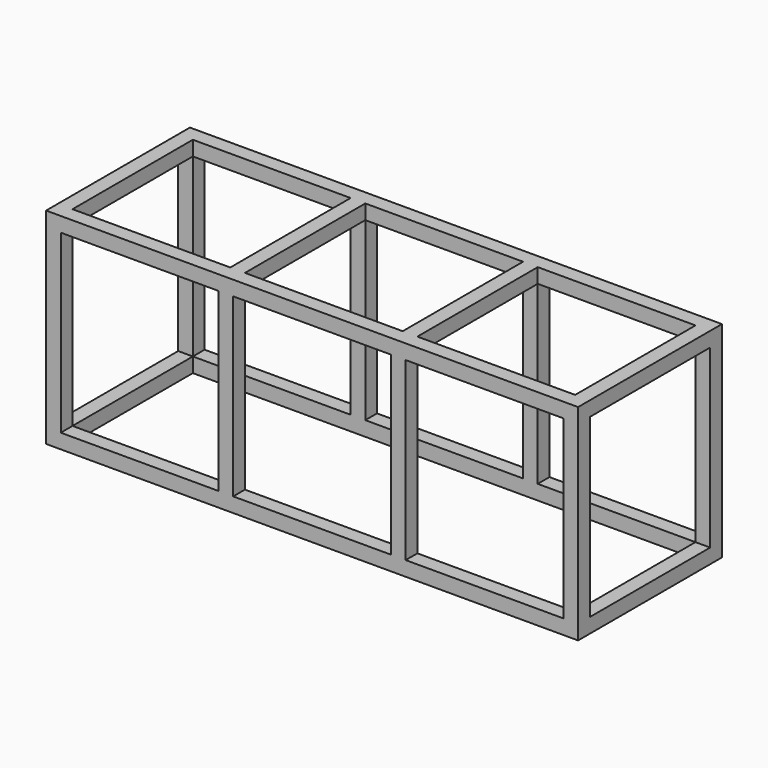
from build123d import *

# Parameters (mm, degrees)
F0_W      = 1841.5
F0_H      = 622.3
F1_DEPTH  = 711.2
F2_W      = 1739.9
F2_H      = 609.6
F3_DEPTH  = 762
F4_W      = 520.7
F4_H      = 609.6
F5_DEPTH  = 2540
F6_W      = 1739.9
F6_H      = 520.7
F7_DEPTH  = 2540
F8_W      = 50.8
F8_H      = 50.8
F9_DEPTH  = 520.7
F10_W     = 50.8
F10_H     = 50.8
F11_DEPTH = 609.6
F12_W     = 50.8
F12_H     = 50.8
F13_DEPTH = 609.6


with BuildPart() as f1:
    # F0 (on Top) → F1 (new body)
    with BuildSketch(Plane.XY):
        with Locations((814.200432, 140.348346)):
            Rectangle(F0_W, F0_H)
    extrude(amount=F1_DEPTH)

    # F2 (on face) → F3 (cut)
    with BuildSketch(Plane.XZ.offset(170.801654)):
        with Locations((814.200432, 355.6)):
            Rectangle(F2_W, F2_H)
    extrude(amount=-F3_DEPTH, mode=Mode.SUBTRACT)

    # F4 (on face) → F5 (cut)
    with BuildSketch(Plane(origin=(-106.549568, 0, 0), x_dir=(0, -1, 0), z_dir=(-1, 0, 0))):
        with Locations((-140.348346, 355.6)):
            Rectangle(F4_W, F4_H)
    extrude(amount=-F5_DEPTH, mode=Mode.SUBTRACT)

    # F6 (on face) → F7 (cut)
    with BuildSketch(Plane.XY.offset(711.2)):
        with Locations((814.200432, 140.348346)):
            Rectangle(F6_W, F6_H)
    extrude(amount=-F7_DEPTH, mode=Mode.SUBTRACT)

    # F8 (on face) → F9 (join)
    with BuildSketch(Plane.XZ.offset(-400.698346)):
        with Locations((515.750432, 685.8)):
            Rectangle(F8_W, F8_H)
        with Locations((1112.650432, 685.8)):
            Rectangle(F8_W, F8_H)
    extrude(amount=F9_DEPTH)

    # F10 (on face) → F11 (join)
    with BuildSketch(Plane(origin=(0, 0, 660.4), x_dir=(1, 0, 0), z_dir=(0, 0, -1))):
        with Locations((1112.650432, -426.098346)):
            Rectangle(F10_W, F10_H)
        with Locations((515.750432, -426.098346)):
            Rectangle(F10_W, F10_H)
    extrude(amount=F11_DEPTH)

    # F12 (on face) → F13 (join)
    with BuildSketch(Plane(origin=(0, 0, 660.4), x_dir=(1, 0, 0), z_dir=(0, 0, -1))):
        with Locations((515.750432, 145.401654)):
            Rectangle(F12_W, F12_H)
        with Locations((1112.650432, 145.401654)):
            Rectangle(F12_W, F12_H)
    extrude(amount=F13_DEPTH)


solid = f1.part
